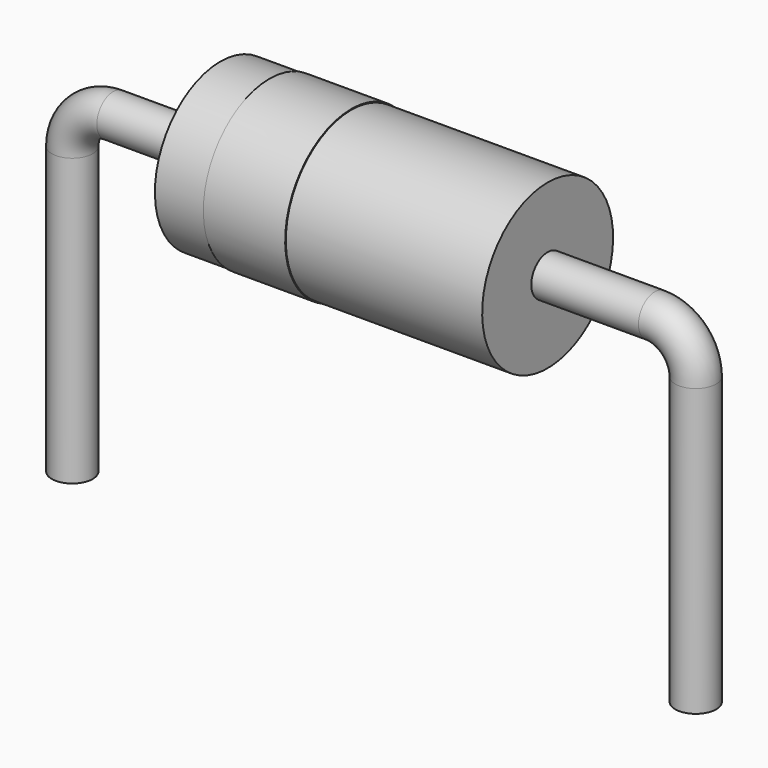
from build123d import *

# Parameters (mm, degrees)
SKETCH002_W = 4
SKETCH002_H = 1
SKETCH003_W = 1
SKETCH003_H = 0.02
SKETCH_R    = 0.25


with BuildPart() as revolution:
    # Sketch002 → Revolution (revolve)
    with BuildSketch(Plane.XZ):
        with Locations((3.81, 2)):
            Rectangle(SKETCH002_W, SKETCH002_H)
    revolve(axis=Axis((1.81, 0, 1.5), (1, 0, 0)))


with BuildPart() as revolution001:
    # Sketch003 → Revolution001 (revolve)
    with BuildSketch(Plane.XZ):
        with Locations((2.91, 2.5)):
            Rectangle(SKETCH003_W, SKETCH003_H)
    revolve(axis=Axis((0, 0, 1.5), (1, 0, 0)))


with BuildPart() as sweep_body:
    # Sweep: sweep along a path in Sketch001
    with BuildLine(Plane.XZ) as sweep_path:
        Line((0, -2.5), (0, 1))
        ThreePointArc((0, 1), (0.146447, 1.353553), (0.5, 1.5))
        Line((0.5, 1.5), (7.12, 1.5))
        ThreePointArc((7.12, 1.5), (7.473553, 1.353553), (7.62, 1))
        Line((7.62, 1), (7.62, -2.5))
    # Sketch → Sweep (sweep)
    with BuildSketch(Plane.XY.offset(-2)):
        Circle(SKETCH_R)
    sweep(path=sweep_path.line)


solid = Compound([revolution.part, revolution001.part, sweep_body.part])
